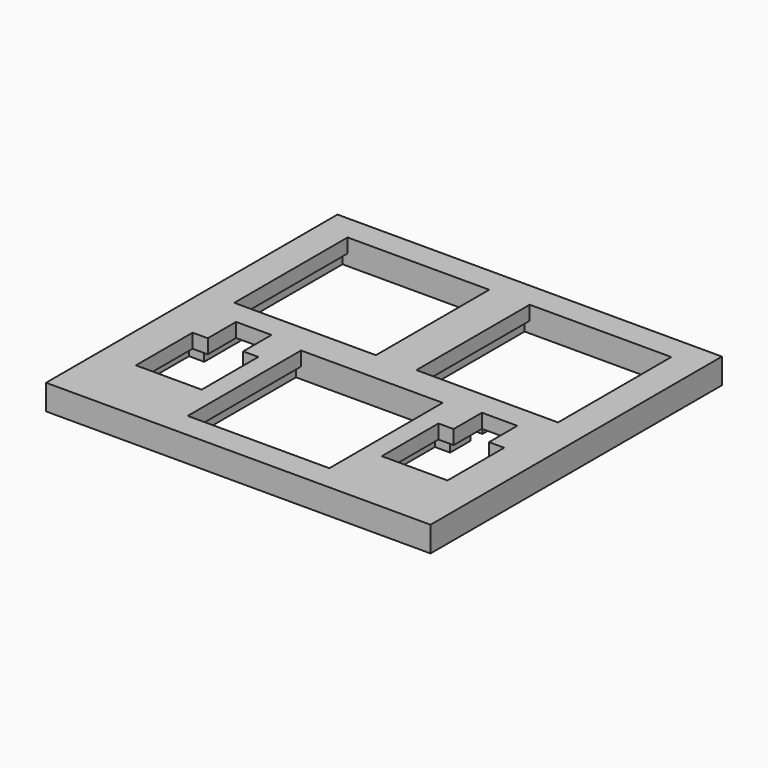
from build123d import *

# Parameters (mm, degrees)
SKETCH_W        = 38
SKETCH_H        = 36
PAD_DEPTH       = 2.5
SKETCH001_W     = 14
SKETCH001_H     = 14
POCKET_DEPTH    = 1.4
SKETCH002_W     = 15
SKETCH002_H     = 14
POCKET001_DEPTH = 1.1


with BuildPart() as part:
    # Sketch → Pad (new body)
    with BuildSketch(Plane.XY):
        Rectangle(SKETCH_W, SKETCH_H)
    extrude(amount=PAD_DEPTH)

    # Sketch001 (on DatumPlane) → Pocket (cut)
    with BuildSketch(Plane.XY.offset(2.5)):
        with Locations((-9, 8.5)):
            Rectangle(SKETCH001_W, SKETCH001_H)
        with Locations((9, 8.5)):
            Rectangle(SKETCH001_W, SKETCH001_H)
        with Locations((0, -8.5)):
            Rectangle(SKETCH001_W, SKETCH001_H)
        Polygon((10.4, -0.9), (10.4, -4.4), (8.9, -4.4), (8.9, -11.4), (15.4, -11.4), (15.4, -4.4), (13.9, -4.4), (13.9, -0.9), align=None)
        Polygon((-15.4, -11.4), (-8.9, -11.4), (-8.9, -4.4), (-10.4, -4.4), (-10.4, -0.9), (-13.9, -0.9), (-13.9, -4.4), (-15.4, -4.4), align=None)
    extrude(amount=-POCKET_DEPTH, mode=Mode.SUBTRACT)

    # Sketch002 → Pocket001 (cut)
    with BuildSketch(Plane.XY):
        with Locations((9, 8.5)):
            Rectangle(SKETCH002_W, SKETCH002_H)
        with Locations((-9, 8.5)):
            Rectangle(SKETCH002_W, SKETCH002_H)
        with Locations((0, -8.5)):
            Rectangle(SKETCH002_W, SKETCH002_H)
        Polygon((8.15, -11.9), (8.15, -3.9), (9.65, -3.9), (9.65, -1.4), (-9.65, -1.4), (-9.65, -3.9), (-8.15, -3.9), (-8.15, -11.9), (-16.15, -11.9), (-16.15, -3.9), (-14.65, -3.9), (-14.65, 1.1), (-9.65, 1.1), (-9.65, 0.1), (9.65, 0.1), (9.65, 1.1), (14.65, 1.1), (14.65, -3.9), (16.15, -3.9), (16.15, -11.9), align=None)
    extrude(amount=POCKET001_DEPTH, mode=Mode.SUBTRACT)


solid = part.part
